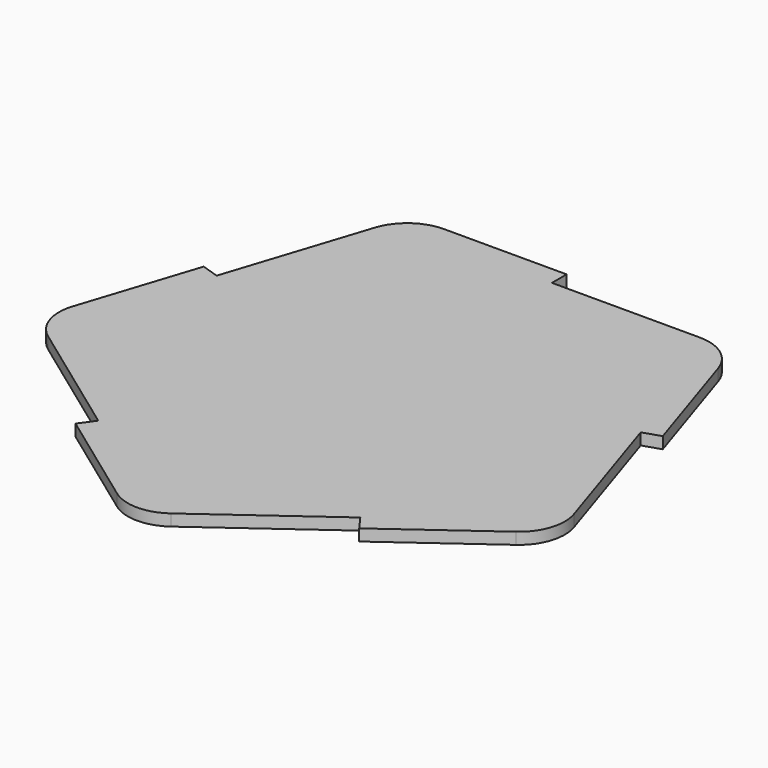
from build123d import *

# Parameters (mm, degrees)
F1_DEPTH = 1.6


with BuildPart() as f1:
    # F0 (on Top) → F1 (new body)
    with BuildSketch(Plane.XY):
        with BuildLine():
            Line((0, 30.785716), (0, 33.325716))
            Line((0, 33.325716), (-16.928291, 33.325716))
            ThreePointArc((-16.928291, 33.325716), (-20.660727, 32.112974), (-22.9675, 28.937974))
            Line((-22.9675, 28.937974), (-29.278956, 9.513309))
            Line((-29.278956, 9.513309), (-31.694639, 10.298213))
            Line((-31.694639, 10.298213), (-36.925769, -5.801549))
            ThreePointArc((-36.925769, -5.801549), (-36.925769, -9.726065), (-34.618996, -12.901065))
            Line((-34.618996, -12.901065), (-18.09539, -24.906167))
            Line((-18.09539, -24.906167), (-19.588364, -26.961071))
            Line((-19.588364, -26.961071), (-5.893089, -36.91127))
            ThreePointArc((-5.893089, -36.91127), (-2.160653, -38.124012), (1.571783, -36.91127))
            Line((1.571783, -36.91127), (18.09539, -24.906167))
            Line((18.09539, -24.906167), (19.588364, -26.961071))
            Line((19.588364, -26.961071), (33.283639, -17.010871))
            ThreePointArc((33.283639, -17.010871), (35.590412, -13.835871), (35.590412, -9.911355))
            Line((35.590412, -9.911355), (29.278956, 9.513309))
            Line((29.278956, 9.513309), (31.694639, 10.298213))
            Line((31.694639, 10.298213), (26.46351, 26.397974))
            ThreePointArc((26.46351, 26.397974), (24.156737, 29.572974), (20.424301, 30.785716))
            Line((20.424301, 30.785716), (0, 30.785716))
        make_face()
    extrude(amount=F1_DEPTH)


solid = f1.part
